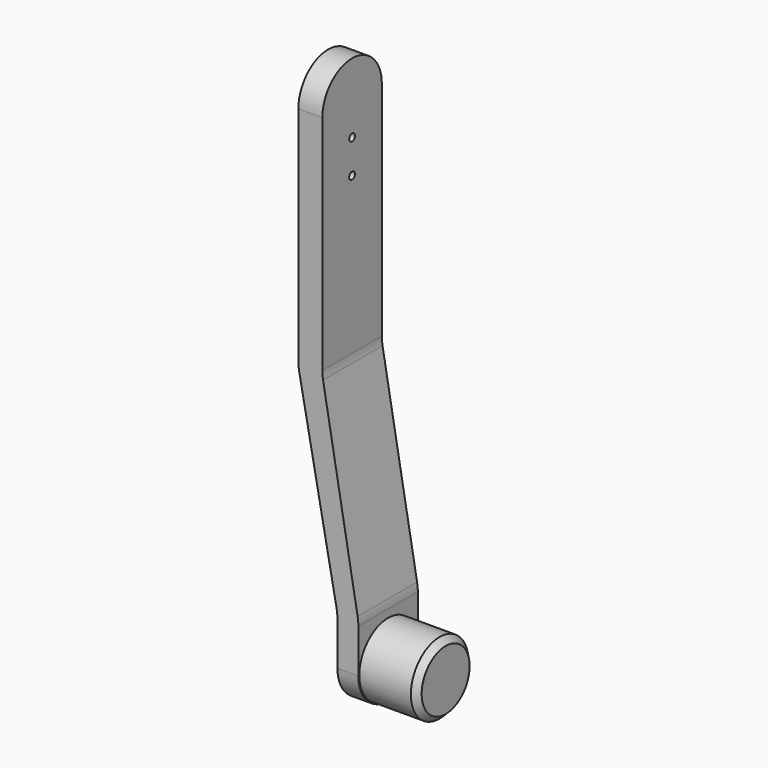
from build123d import *

# Parameters (mm, degrees)
F0_R     = 0.15
F1_DEPTH = 2.5
F2_R     = 1.5
F3_DEPTH = 2.4
F5_DEPTH = 25
F7_DEPTH = 25
F8_R     = 2
F9_SIZE  = 0.25


with BuildPart() as f1:
    # F0 (on Right) → F1 (new body)
    with BuildSketch(Plane.YZ):
        with BuildLine():
            ThreePointArc((-3.1, 0), (-1.55, -1.55), (0, 0))
            Line((0, 0), (0, 20))
            ThreePointArc((0, 20), (-1.55, 21.55), (-3.1, 20))
            Line((-3.1, 20), (-3.1, 0))
        make_face()
        with Locations((-1.55, 17.244)):
            Circle(F0_R, mode=Mode.SUBTRACT)
        with Locations((-1.55, 18.644)):
            Circle(F0_R, mode=Mode.SUBTRACT)
    extrude(amount=F1_DEPTH)

    # F2 (on face) → F3 (join)
    with BuildSketch(Plane.YZ.offset(2.5)):
        with Locations((-1.55, 0)):
            Circle(F2_R)
    extrude(amount=F3_DEPTH)

    # F4 (on face) → F5 (cut)
    with BuildSketch(Plane.XZ.offset(3.1)):
        Polygon((2.5, 10.55), (2.5, 21.55), (1, 21.55), (1, 10.55), (2.5, 2.0031642634), align=None)
    extrude(amount=-F5_DEPTH, mode=Mode.SUBTRACT)

    # F6 (on face) → F7 (cut)
    with BuildSketch(Plane.XZ.offset(3.1)):
        Polygon((1.6280860873, 2.0031642634), (0, 10.55), (0, -2.1245246753), (1.6280860873, -2.1245246753), align=None)
    extrude(amount=-F7_DEPTH, mode=Mode.SUBTRACT)

    # F8
    f8_edges = [f1.edges().sort_by_distance(p)[0] for p in [
        (1, -1.55, 10.55),
        (2.5, -1.55, 2.003164),
        (1.628086, -1.55, 2.003164),
        (0, -1.55, 10.55),
    ]]
    fillet(f8_edges, radius=F8_R)

    # F9
    f9_edges = [f1.edges().sort_by_distance(p)[0] for p in [
        (4.9, -3.05, 0),
    ]]
    chamfer(f9_edges, length=F9_SIZE)


solid = f1.part
